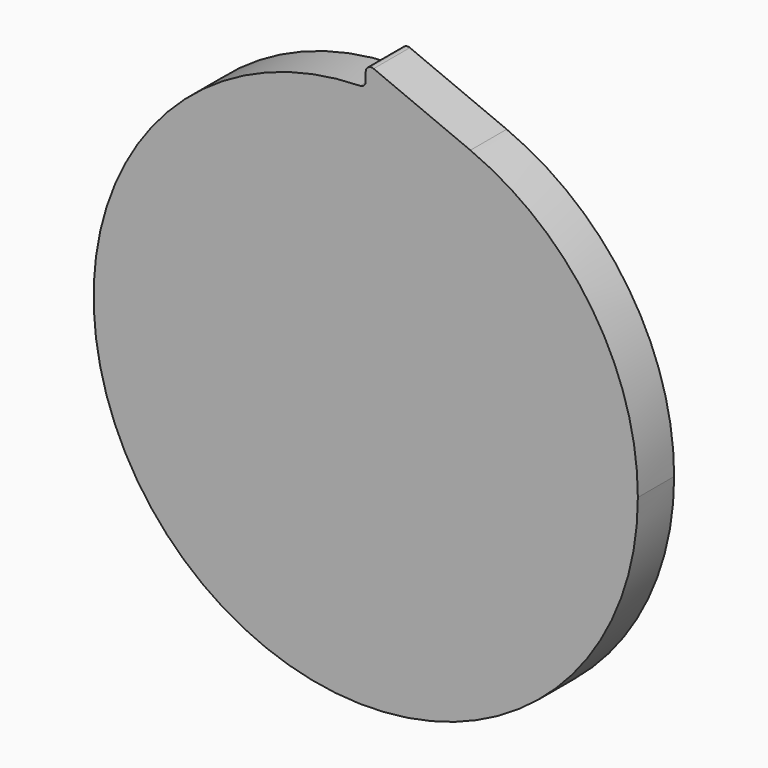
from build123d import *

# Parameters (mm, degrees)
F1_DEPTH = 25.4
F2_R     = 3.175
F3_R     = 3.175


with BuildPart() as f1:
    # F0 (on Front) → F1 (new body)
    with BuildSketch(Plane.XZ):
        with BuildLine():
            ThreePointArc((0, 152.4), (-107.763073, -107.763073), (152.4, 0))
            ThreePointArc((152.4, 0), (126.804465, 84.53631), (58.615385, 140.676923))
            ThreePointArc((58.615385, 140.676923), (29.888099, 149.440495), (0, 152.4))
        make_face()
        with BuildLine():
            ThreePointArc((0, 152.4), (29.888099, 149.440495), (58.615385, 140.676923))
            Line((58.615385, 140.676923), (0, 165.1))
            Line((0, 165.1), (0, 152.4))
        make_face()
    extrude(amount=F1_DEPTH)

    # F2
    f2_edges = [f1.edges().sort_by_distance(p)[0] for p in [
        (0, -12.7, 152.4),
    ]]
    fillet(f2_edges, radius=F2_R)

    # F3
    f3_edges = [f1.edges().sort_by_distance(p)[0] for p in [
        (0, -12.7, 165.1),
    ]]
    fillet(f3_edges, radius=F3_R)


solid = f1.part
